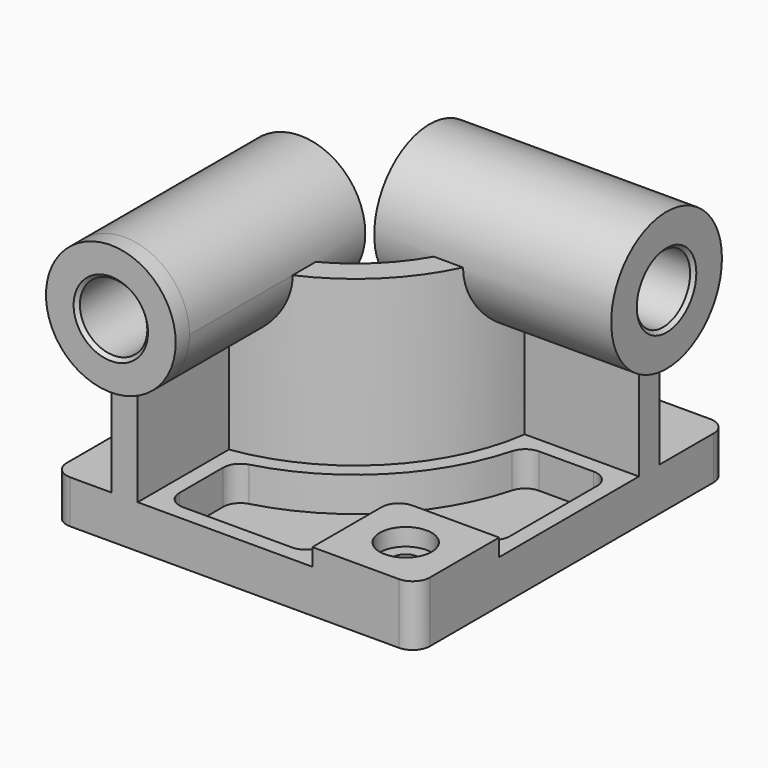
from build123d import *

# Parameters (mm, degrees)
F0_W            = 5334
F0_H            = 5715
F1_DEPTH        = 635
F3_DEPTH        = 2413
F4_R            = 952.5
F5_DEPTH        = 254
F5_DEPTH_BACK   = 3225.8
F6_R            = 1016
F7_DEPTH        = 254
F7_DEPTH_BACK   = 3225.8
F8_W            = 1524
F8_H            = 1524
F9_DEPTH        = 254
F10_R           = 254
F12_DEPTH       = 508
F14_D           = 381
F14_CBORE_D     = 762
F14_CBORE_DEPTH = 254
F15_R           = 254
F16_R           = 495.3
F17_DEPTH       = 5969.001
F18_R           = 495.3
F19_DEPTH       = 5588.001
F20_SIZE        = 50.8
F21_R           = 254


with BuildPart() as f1:
    # F0 (on Top) → F1 (new body)
    with BuildSketch(Plane.XY):
        Rectangle(F0_W, F0_H)
    extrude(amount=F1_DEPTH)

    # F2 (on face) → F3 (join)
    with BuildSketch(Plane.XY.offset(635)):
        with BuildLine():
            Line((-1803.4, -825.5), (-1803.4, -2857.5))
            Line((-1803.4, -2857.5), (-1422.4, -2857.5))
            Line((-1422.4, -2857.5), (-1422.4, -1180.638144))
            ThreePointArc((-1422.4, -1180.638144), (190.216859, -380.716859), (990.138144, 1231.9))
            Line((990.138144, 1231.9), (2667, 1231.9))
            Line((2667, 1231.9), (2667, 1612.9))
            Line((2667, 1612.9), (635, 1612.9))
            ThreePointArc((635, 1612.9), (-79.190825, -111.309175), (-1803.4, -825.5))
        make_face()
    extrude(amount=F3_DEPTH)

    # F4 (on face) → F5 (join, two sides)
    with BuildSketch(Plane.XZ.offset(2857.5)) as f5_sk:
        with Locations((-1612.9, 3048)):
            Circle(F4_R)
    extrude(amount=F5_DEPTH)
    extrude(f5_sk.sketch, amount=-F5_DEPTH_BACK)

    # F6 (on face) → F7 (join, two sides)
    with BuildSketch(Plane.YZ.offset(2667)) as f7_sk:
        with Locations((1422.4, 3048)):
            Circle(F6_R)
    extrude(amount=F7_DEPTH)
    extrude(f7_sk.sketch, amount=-F7_DEPTH_BACK)

    # F8 (on face) → F9 (join)
    with BuildSketch(Plane.XY.offset(635)):
        with Locations((1905, -2095.5)):
            Rectangle(F8_W, F8_H)
    extrude(amount=F9_DEPTH)

    # F10
    f10_edges = [f1.edges().sort_by_distance(p)[0] for p in [
        (1143, -1333.5, 762),
    ]]
    fillet(f10_edges, radius=F10_R)

    # F11 (on face) → F12 (cut)
    with BuildSketch(Plane.XY.offset(635)):
        with BuildLine():
            ThreePointArc((1183.017894, 1003.3), (351.861469, -542.361469), (-1193.8, -1373.517894))
            Line((-1193.8, -1373.517894), (-1193.8, -2628.9))
            Line((-1193.8, -2628.9), (914.4, -2628.9))
            Line((914.4, -2628.9), (914.4, -1587.5))
            ThreePointArc((914.4, -1587.5), (1055.750267, -1246.250267), (1397, -1104.9))
            Line((1397, -1104.9), (2438.4, -1104.9))
            Line((2438.4, -1104.9), (2438.4, 1003.3))
            Line((2438.4, 1003.3), (1183.017894, 1003.3))
        make_face()
    extrude(amount=-F12_DEPTH, mode=Mode.SUBTRACT)

    # F14 (through all)
    with Locations(Plane.XY.offset(889)):
        with Locations((1905, -2095.5)):
            CounterBoreHole(F14_D / 2, F14_CBORE_D / 2, F14_CBORE_DEPTH)

    # F15
    f15_edges = [f1.edges().sort_by_distance(p)[0] for p in [
        (-1193.8, -1373.517894, 381),
        (1183.017894, 1003.3, 381),
        (2438.4, 1003.3, 381),
        (2438.4, -1104.9, 381),
        (914.4, -2628.9, 381),
        (-1193.8, -2628.9, 381),
    ]]
    fillet(f15_edges, radius=F15_R)

    # F16 (on face) → F17 (cut, through all)
    with BuildSketch(Plane.XZ.offset(3111.5)):
        with Locations((-1612.9, 3048)):
            Circle(F16_R)
    extrude(amount=-F17_DEPTH, mode=Mode.SUBTRACT)

    # F18 (on face) → F19 (cut, through all)
    with BuildSketch(Plane.YZ.offset(2921)):
        with Locations((1422.4, 3048)):
            Circle(F18_R)
    extrude(amount=-F19_DEPTH, mode=Mode.SUBTRACT)

    # F20
    f20_edges = [f1.edges().sort_by_distance(p)[0] for p in [
        (-2108.2, -3111.5, 3048),
        (2921, 927.1, 3048),
        (-2108.2, 368.3, 3048),
        (-558.8, 927.1, 3048),
    ]]
    chamfer(f20_edges, length=F20_SIZE)

    # F21
    f21_edges = [f1.edges().sort_by_distance(p)[0] for p in [
        (-2667, -2857.5, 317.5),
        (2667, -2857.5, 444.5),
        (2667, 2857.5, 317.5),
        (-2667, 2857.5, 317.5),
    ]]
    fillet(f21_edges, radius=F21_R)


solid = f1.part
